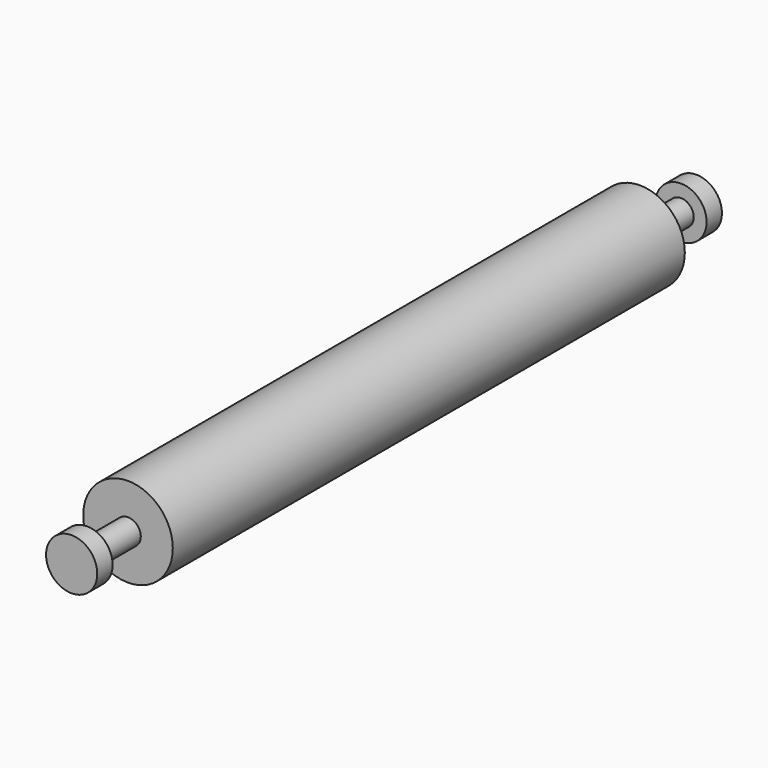
from build123d import *

# Parameters (mm, degrees)
F0_R     = 3.5
F0_R_2   = 2
F0_R_3   = 1
F1_DEPTH = 25
F2_R     = 1
F3_DEPTH = 4
F4_W     = 1.5
F4_H     = 2


with BuildPart() as f1:
    # F0 (on Front) → F1 (new body)
    with BuildSketch(Plane.XZ):
        Circle(F0_R)
        Circle(F0_R_2, mode=Mode.SUBTRACT)
        Circle(F0_R_2)
        Circle(F0_R_3, mode=Mode.SUBTRACT)
        Circle(F0_R_3)
    extrude(amount=-F1_DEPTH)

    # F2 (on Front) → F3 (join)
    with BuildSketch(Plane.XZ):
        Circle(F2_R)
    extrude(amount=F3_DEPTH)

    # F4 (on Right) → F5 (revolve)
    with BuildSketch(Plane.YZ):
        with Locations((-4.75, 1)):
            Rectangle(F4_W, F4_H)
    revolve(axis=Axis((0, -4.75, 0), (0, 1, 0)))

    # F6: F1 across face


with BuildPart() as f1_1:
    add(f1.part)
    add(f1.part.mirror(Plane(origin=(0, 25, 0), x_dir=(1, 0, 0), z_dir=(0, 1, 0))))


solid = f1_1.part
